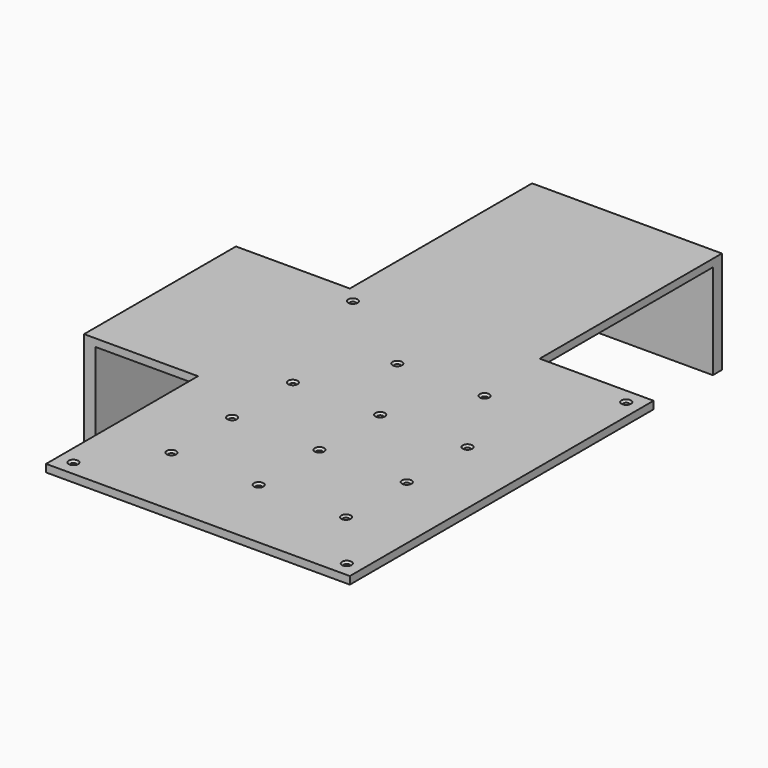
from build123d import *

# Parameters (mm, degrees)
F0_W     = 80
F0_H     = 100
F0_R     = 0.75
F1_DEPTH = 2
F3_W     = 50
F3_H     = 2
F4_DEPTH = 60
F2_W     = 50
F2_H     = 2
F5_DEPTH = 30
F6_W     = 3
F6_H     = 50
F6_W_2   = 50
F6_H_2   = 3
F7_DEPTH = 25
F8_SIZE  = 0.5


with BuildPart() as f1:
    # F0 (on Top) → F1 (new body)
    with BuildSketch(Plane.XY):
        with Locations((-20.396638, -30.557484)):
            Rectangle(F0_W, F0_H)
        with Locations((-56.396638, -76.557484)):
            Circle(F0_R, mode=Mode.SUBTRACT)
        with Locations((-43.396638, -60.557484)):
            Circle(F0_R, mode=Mode.SUBTRACT)
        with Locations((-43.396638, -40.557484)):
            Circle(F0_R, mode=Mode.SUBTRACT)
        with Locations((-20.396638, -60.557484)):
            Circle(F0_R, mode=Mode.SUBTRACT)
        with Locations((15.603362, -76.557484)):
            Circle(F0_R, mode=Mode.SUBTRACT)
        with Locations((2.603362, -60.557484)):
            Circle(F0_R, mode=Mode.SUBTRACT)
        with Locations((-20.396638, -40.557484)):
            Circle(F0_R, mode=Mode.SUBTRACT)
        with Locations((2.603362, -40.557484)):
            Circle(F0_R, mode=Mode.SUBTRACT)
        with Locations((-43.396638, -20.557484)):
            Circle(F0_R, mode=Mode.SUBTRACT)
        with Locations((-56.396638, 15.442516)):
            Circle(F0_R, mode=Mode.SUBTRACT)
        with Locations((-31.896638, -0.557484)):
            Circle(F0_R, mode=Mode.SUBTRACT)
        with Locations((-20.396638, -20.557484)):
            Circle(F0_R, mode=Mode.SUBTRACT)
        with Locations((2.603362, -20.557484)):
            Circle(F0_R, mode=Mode.SUBTRACT)
        with Locations((-8.896638, -0.557484)):
            Circle(F0_R, mode=Mode.SUBTRACT)
        with Locations((15.603362, 15.442516)):
            Circle(F0_R, mode=Mode.SUBTRACT)
    extrude(amount=F1_DEPTH)

    # F3 (on face) → F4 (join)
    with BuildSketch(Plane(origin=(0, 19.442516, 0), x_dir=(-1, 0, 0), z_dir=(0, 1, 0))):
        with Locations((35.396638, 1)):
            Rectangle(F3_W, F3_H)
    extrude(amount=F4_DEPTH)

    # F2 (on face) → F5 (join)
    with BuildSketch(Plane(origin=(-60.396638, 0, 0), x_dir=(0, -1, 0), z_dir=(-1, 0, 0))):
        with Locations((5.557484, 1)):
            Rectangle(F2_W, F2_H)
    extrude(amount=F5_DEPTH)

    # F6 (on face) → F7 (join)
    with BuildSketch(Plane(origin=(0, 0, 0), x_dir=(1, 0, 0), z_dir=(0, 0, -1))):
        with Locations((-88.896638, 5.557484)):
            Rectangle(F6_W, F6_H)
        with Locations((-35.396638, -77.942516)):
            Rectangle(F6_W_2, F6_H_2)
    extrude(amount=F7_DEPTH)

    # F8
    f8_edges = [f1.edges().sort_by_distance(p)[0] for p in [
        (-57.146638, -76.557484, 2),
        (-44.146638, -60.557484, 2),
        (-44.146638, -40.557484, 2),
        (-44.146638, -20.557484, 2),
        (-32.646638, -0.557484, 2),
        (-21.146638, -20.557484, 2),
        (-21.146638, -40.557484, 2),
        (-21.146638, -60.557484, 2),
        (14.853362, -76.557484, 2),
        (1.853362, -60.557484, 2),
        (1.853362, -40.557484, 2),
        (1.853362, -20.557484, 2),
        (-9.646638, -0.557484, 2),
        (14.853362, 15.442516, 2),
        (-57.146638, 15.442516, 2),
    ]]
    chamfer(f8_edges, length=F8_SIZE)


solid = f1.part
